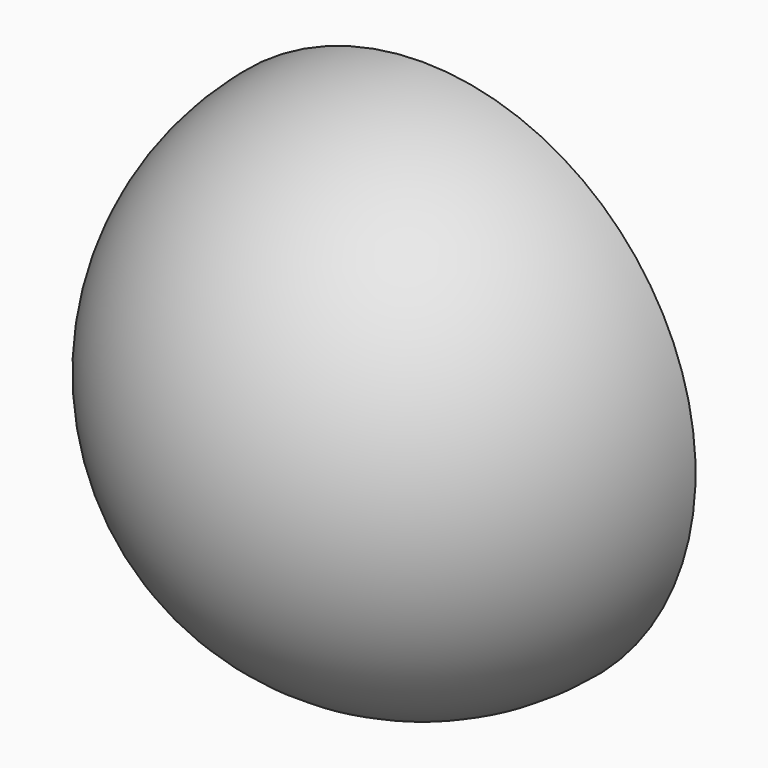
from build123d import *

# Parameters (mm, degrees)
F1_ANGLE = -180


with BuildPart() as f1:
    # F0 (on Front) → F1 (revolve)
    with BuildSketch(Plane.XZ):
        with BuildLine():
            Line((0, 16.51), (0, 19.05))
            ThreePointArc((0, 19.05), (-19.05, 0), (0, -19.05))
            Line((0, -19.05), (0, -16.51))
            ThreePointArc((0, -16.51), (-16.51, 0), (0, 16.51))
        make_face()
    revolve(axis=Axis((0, 0, 17.78), (0, 0, -1)), revolution_arc=F1_ANGLE)


solid = f1.part
